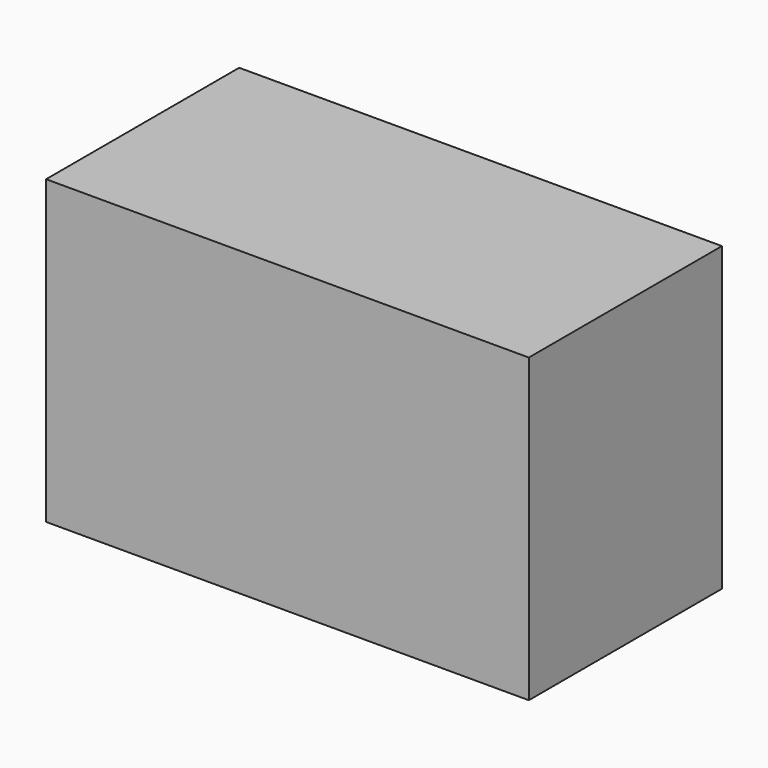
from build123d import *

# Parameters (mm, degrees)
F0_W      = 50.8
F0_H      = 31.75
F1_DEPTH  = 25.4
F2_W      = 12.7
F2_H      = 21.27206
F3_DEPTH  = 50.8
F3_FACE_W = 12.7
F3_FACE_H = 21.27206
F4_DEPTH  = 50.8


with BuildPart() as f1:
    # F0 (on Front) → F1 (new body)
    with BuildSketch(Plane.XZ):
        with Locations((-6.660153, -6.235599)):
            Rectangle(F0_W, F0_H)
    extrude(amount=F1_DEPTH)

    # F2 (on face) → F3 (join)
    with BuildSketch(Plane.YZ.offset(18.739847)):
        with Locations((-19.05, -0.996629)):
            Rectangle(F2_W, F2_H)
    extrude(amount=F3_DEPTH)

    # F3_face (on face) → F4 (cut)
    with BuildSketch(Plane(origin=(69.539847, -19.05, -0.996629), x_dir=(0, 1, 0), z_dir=(1, 0, 0))):
        Rectangle(F3_FACE_W, F3_FACE_H)
    extrude(amount=-F4_DEPTH, mode=Mode.SUBTRACT)


solid = f1.part
